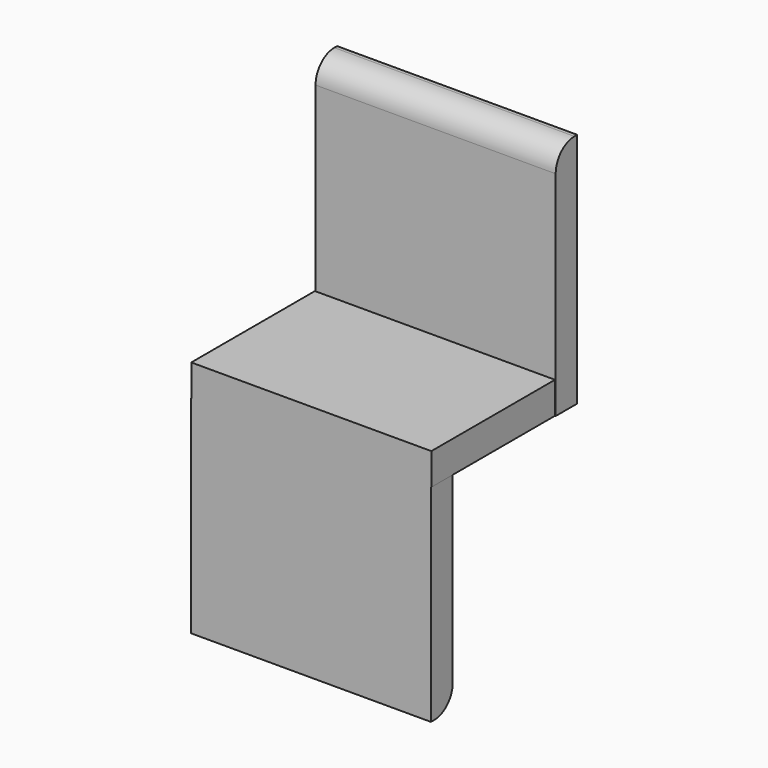
from build123d import *

# Parameters (mm, degrees)
F0_W     = 52.1929860115
F0_H     = 5.8492124081
F1_DEPTH = 51.4541193843
F2_W     = 52.1929860115
F2_H     = 6.8990886211
F3_DEPTH = 33.7024219334
F4_W     = 52.2046461701
F4_H     = 5.920117721
F5_DEPTH = 44.953584671
F6_R     = 5.08
F7_R     = 5.08


with BuildPart() as f1:
    # F0 (on Top) → F1 (new body)
    with BuildSketch(Plane.XY):
        with Locations((-0.8998662233, 36.52010113)):
            Rectangle(F0_W, F0_H)
    extrude(amount=F1_DEPTH)

    # F2 (on Front) → F3 (join)
    with BuildSketch(Plane.XZ):
        with Locations((-1.0498464108, 3.4495443106)):
            Rectangle(F2_W, F2_H)
    extrude(amount=-F3_DEPTH)

    # F4 (on Top) → F5 (join)
    with BuildSketch(Plane.XY):
        with Locations((-1.1427812278, 2.9600588605)):
            Rectangle(F4_W, F4_H)
    extrude(amount=-F5_DEPTH)

    # F6
    f6_edges = [f1.edges().sort_by_distance(p)[0] for p in [
        (-1.142781, 5.920118, -44.953585),
    ]]
    fillet(f6_edges, radius=F6_R)

    # F7
    f7_edges = [f1.edges().sort_by_distance(p)[0] for p in [
        (-0.899866, 33.595495, 51.454119),
    ]]
    fillet(f7_edges, radius=F7_R)


solid = f1.part
